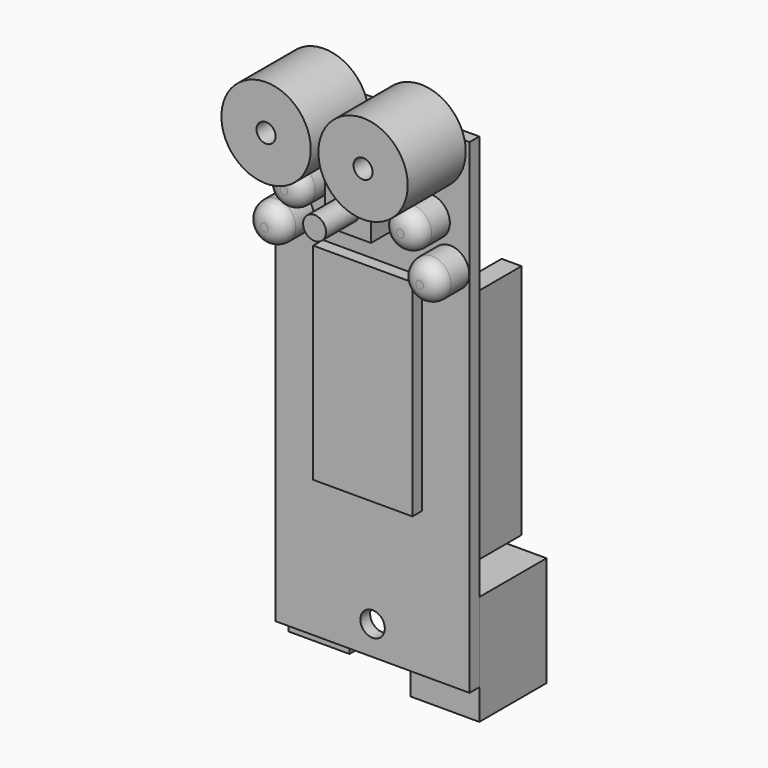
from build123d import *

# Parameters (mm, degrees)
F0_W      = 25.4
F0_H      = 63.5
F0_R      = 1.6
F1_DEPTH  = 1.6
F2_W      = 6
F2_H      = 6
F3_DEPTH  = 4
F4_R      = 1.5
F5_DEPTH  = 9.5
F6_R      = 5.85
F7_DEPTH  = 9.5
F8_W      = 13
F8_H      = 27
F9_DEPTH  = 1.6
F10_W     = 18.7
F10_H     = 34
F11_DEPTH = 4
F12_W     = 2.6
F12_H     = 31
F13_DEPTH = 8.45
F14_W     = 9
F14_H     = 14.4
F15_DEPTH = 11
F16_W     = 8
F16_H     = 5.6
F17_DEPTH = 2.8
F18_W     = 12.3
F18_H     = 2
F19_DEPTH = 5
F20_R     = 2.5
F21_DEPTH = 5
F22_R     = 2
F22_2_R   = 2
F22_3_R   = 2
F22_4_R   = 2
F23_R     = 1.25
F24_DEPTH = 3


with BuildPart() as f1:
    # F0 (on Front) → F1 (new body)
    with BuildSketch(Plane.XZ):
        with Locations((0, -21.59)):
            Rectangle(F0_W, F0_H)
        with Locations((0, -49.53)):
            Circle(F0_R, mode=Mode.SUBTRACT)
    extrude(amount=-F1_DEPTH)


with BuildPart() as f3:
    # F2 (on Front) → F3 (new body)
    with BuildSketch(Plane.XZ):
        Rectangle(F2_W, F2_H)
    extrude(amount=F3_DEPTH)

    # F4 (on Front) → F5 (join)
    with BuildSketch(Plane.XZ):
        Circle(F4_R)
    extrude(amount=F5_DEPTH)


with BuildPart() as f7:
    # F6 (on Front) → F7 (new body)
    with BuildSketch(Plane.XZ):
        with Locations((-6.35, 8.89)):
            Circle(F6_R)
    extrude(amount=F7_DEPTH)


with BuildPart() as f7b:
    # F6 (on Front) → F7, piece 2 (new body)
    with BuildSketch(Plane.XZ):
        with Locations((6.35, 8.89)):
            Circle(F6_R)
    extrude(amount=F7_DEPTH)


with BuildPart() as f9:
    # F8 (on Front) → F9 (new body)
    with BuildSketch(Plane.XZ):
        with Locations((0, -20.866)):
            Rectangle(F8_W, F8_H)
    extrude(amount=F9_DEPTH)


with BuildPart() as f11:
    # F10 (on face) → F11 (new body)
    with BuildSketch(Plane(origin=(0, 1.6, 0), x_dir=(-1, 0, 0), z_dir=(0, 1, 0))):
        with Locations((0, -23.35)):
            Rectangle(F10_W, F10_H)
    extrude(amount=F11_DEPTH)


with BuildPart() as f13:
    # F12 (on face) → F13 (new body)
    with BuildSketch(Plane(origin=(0, 1.6, 0), x_dir=(-1, 0, 0), z_dir=(0, 1, 0))):
        with Locations((-10.16, -24.13)):
            Rectangle(F12_W, F12_H)
    extrude(amount=F13_DEPTH)


with BuildPart() as f13b:
    # F12 (on face) → F13, piece 2 (new body)
    with BuildSketch(Plane(origin=(0, 1.6, 0), x_dir=(-1, 0, 0), z_dir=(0, 1, 0))):
        with Locations((10.16, -24.13)):
            Rectangle(F12_W, F12_H)
    extrude(amount=F13_DEPTH)


with BuildPart() as f15:
    # F14 (on face) → F15 (new body)
    with BuildSketch(Plane(origin=(0, 1.6, 0), x_dir=(-1, 0, 0), z_dir=(0, 1, 0))):
        with Locations((-8.2, -50.14)):
            Rectangle(F14_W, F14_H)
    extrude(amount=F15_DEPTH)


with BuildPart() as f17:
    # F16 (on face) → F17 (new body)
    with BuildSketch(Plane(origin=(0, 1.6, 0), x_dir=(-1, 0, 0), z_dir=(0, 1, 0))):
        with Locations((8.3, -52.24)):
            Rectangle(F16_W, F16_H)
    extrude(amount=F17_DEPTH)


with BuildPart() as f19:
    # F18 (on face) → F19 (new body)
    with BuildSketch(Plane(origin=(0, 1.6, 0), x_dir=(-1, 0, 0), z_dir=(0, 1, 0))):
        with Locations((0, -5.08)):
            Rectangle(F18_W, F18_H)
    extrude(amount=F19_DEPTH)


with BuildPart() as f21:
    # F20 (on Front) → F21 (new body)
    with BuildSketch(Plane.XZ):
        with Locations((-7.62, 0)):
            Circle(F20_R)
    extrude(amount=F21_DEPTH)

    # F22#2
    f22_2_edges = [f21.edges().sort_by_distance(p)[0] for p in [
        (-10.12, -5, 0),
    ]]
    fillet(f22_2_edges, radius=F22_2_R)


with BuildPart() as f21b:
    # F20 (on Front) → F21, piece 2 (new body)
    with BuildSketch(Plane.XZ):
        with Locations((7.62, 0)):
            Circle(F20_R)
    extrude(amount=F21_DEPTH)

    # F22#3
    f22_3_edges = [f21b.edges().sort_by_distance(p)[0] for p in [
        (5.12, -5, 0),
    ]]
    fillet(f22_3_edges, radius=F22_3_R)


with BuildPart() as f21c:
    # F20 (on Front) → F21, piece 3 (new body)
    with BuildSketch(Plane.XZ):
        with Locations((10.16, -5.08)):
            Circle(F20_R)
    extrude(amount=F21_DEPTH)

    # F22#4
    f22_4_edges = [f21c.edges().sort_by_distance(p)[0] for p in [
        (7.66, -5, -5.08),
    ]]
    fillet(f22_4_edges, radius=F22_4_R)


with BuildPart() as f21d:
    # F20 (on Front) → F21, piece 4 (new body)
    with BuildSketch(Plane.XZ):
        with Locations((-10.16, -5.08)):
            Circle(F20_R)
    extrude(amount=F21_DEPTH)

    # F22
    f22_edges = [f21d.edges().sort_by_distance(p)[0] for p in [
        (-12.66, -5, -5.08),
    ]]
    fillet(f22_edges, radius=F22_R)


with BuildPart() as f24_tool:
    # F23 (on face) → F24 (new body)
    with BuildSketch(Plane.XZ.offset(9.5)):
        with Locations((-6.35, 8.89)):
            Circle(F23_R)
        with Locations((6.35, 8.89)):
            Circle(F23_R)
    extrude(amount=-F24_DEPTH)


with BuildPart() as f7_1:
    add(f7.part)

    # F24: cut by f24_tool
    add(f24_tool.part, mode=Mode.SUBTRACT)


with BuildPart() as f7b_1:
    add(f7b.part)

    # F24: cut by f24_tool
    add(f24_tool.part, mode=Mode.SUBTRACT)


solid = Compound([f1.part, f3.part, f9.part, f11.part, f13.part, f13b.part, f15.part, f17.part, f19.part, f21.part, f21b.part, f21c.part, f21d.part, f7_1.part, f7b_1.part])
